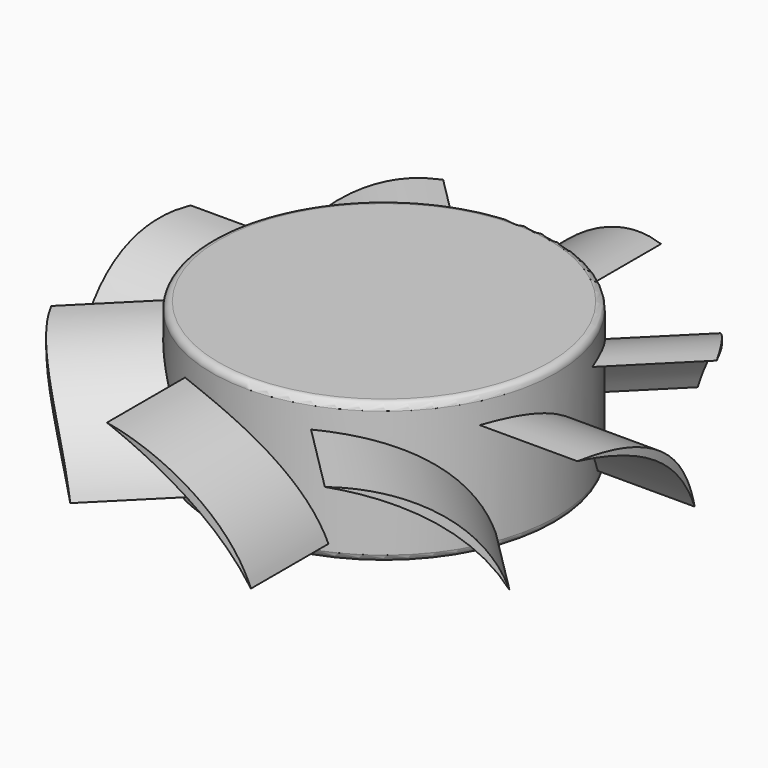
from build123d import *

# Parameters (mm, degrees)
SKETCH058_R           = 12.25
PAD020_DEPTH          = 10
FILLET027_R           = 0.5
PAD021_DEPTH          = 7.5
SKETCH056_R           = 32.89
SKETCH056_R_2         = 18.75
POCKET016_DEPTH       = 94.210561
POLARPATTERN004_COUNT = 8


with BuildPart() as part:
    # Sketch058 → Pad020 (new body)
    with BuildSketch(Plane.XY):
        Circle(SKETCH058_R)
    extrude(amount=PAD020_DEPTH)

    # Fillet027
    fillet027_edges = [part.edges().sort_by_distance(p)[0] for p in [
        (-12.25, 0, 10),
        (-12.25, 0, 0),
    ]]
    fillet(fillet027_edges, radius=FILLET027_R)

    # Sketch061 (on DatumPlane) → Pad021 (join, symmetric)
    with BuildSketch(Plane(origin=(0, 13, -2), x_dir=(1, 0, 0), z_dir=(0, -1, 0))):
        with BuildLine():
            ThreePointArc((5.3, 10), (-1.072659, 8.299055), (-5, 3))
            ThreePointArc((5.3, 10), (-0.742753, 7.813623), (-5, 3))
        make_face()
    pad021 = extrude(amount=PAD021_DEPTH, both=True)

    # Sketch056 (on Face7 of Pad021) → Pocket016 (cut, through all)
    with BuildSketch(Plane.XY.offset(10)):
        Circle(SKETCH056_R)
        Circle(SKETCH056_R_2, mode=Mode.SUBTRACT)
    pocket016 = extrude(amount=-POCKET016_DEPTH, mode=Mode.SUBTRACT)

    # PolarPattern004: Pad021, Pocket016 ×8 about axis
    polarpattern004_axis = Axis((0, 0, 0), (0, 0, 1))
    for i in range(1, POLARPATTERN004_COUNT):
        add(pad021.rotate(polarpattern004_axis, i * 360 / POLARPATTERN004_COUNT))
        add(pocket016.rotate(polarpattern004_axis, i * 360 / POLARPATTERN004_COUNT), mode=Mode.SUBTRACT)


solid = part.part
